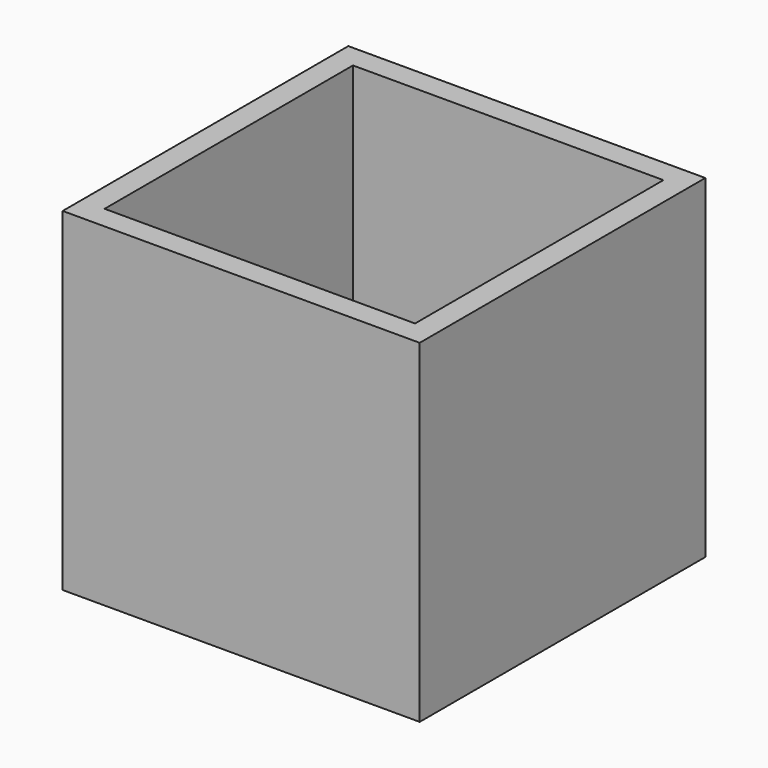
from build123d import *

# Parameters (mm, degrees)
F0_W     = 23
F0_H     = 23
F0_W_2   = 20
F0_H_2   = 20
F1_DEPTH = 1.5
F2_DEPTH = 20


with BuildPart() as f1:
    # F0 (on Top) → F1 (new body)
    with BuildSketch(Plane.XY):
        Rectangle(F0_W, F0_H)
        Rectangle(F0_W_2, F0_H_2, mode=Mode.SUBTRACT)
        Rectangle(F0_W_2, F0_H_2)
    extrude(amount=-F1_DEPTH)

    # F0 (on Top) → F2 (join)
    with BuildSketch(Plane.XY):
        Rectangle(F0_W, F0_H)
        Rectangle(F0_W_2, F0_H_2, mode=Mode.SUBTRACT)
    extrude(amount=F2_DEPTH)


solid = f1.part
